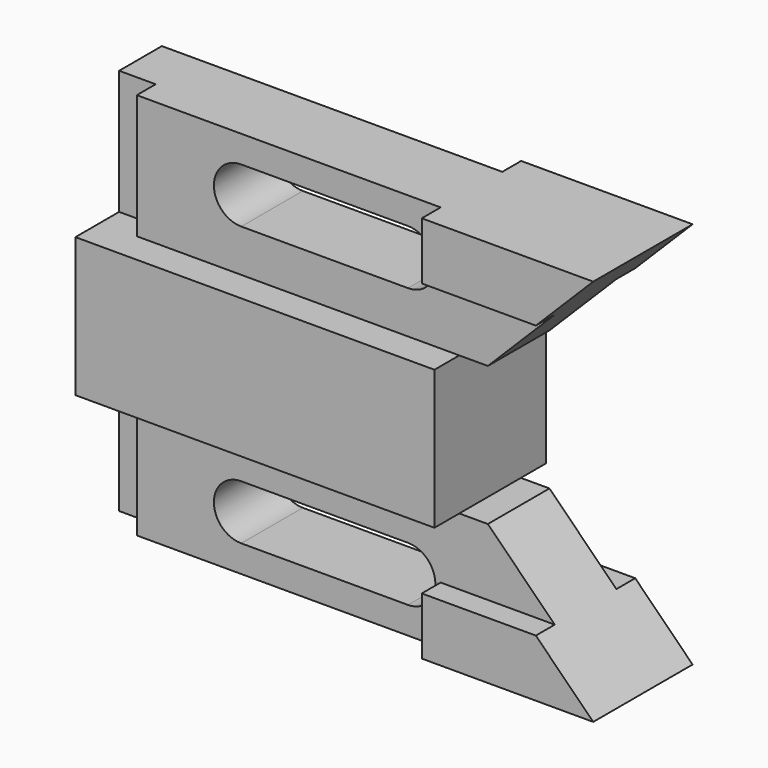
from build123d import *

# Parameters (mm, degrees)
F1_DEPTH      = 14.224
F2_DEPTH      = 7.874
F3_DEPTH      = 12.7
F0_W          = 7.468818
F0_H          = 25.4
F4_DEPTH      = 3.048
F4_DEPTH_BACK = 7.874


with BuildPart() as f1:
    # F0 (on Front) → F1 (new body, symmetric)
    with BuildSketch(Plane.XZ):
        Polygon((-31.242, -14.224), (-31.242, 0), (-97.179182, 0), (-104.648, 0), (-104.648, -14.224), align=None)
    extrude(amount=F1_DEPTH, both=True)

    # F0 (on Front) → F2 (join, symmetric)
    with BuildSketch(Plane.XZ):
        Polygon((-31.242, 0), (-25.4, 0), (-11.728174, 13.671826), (-35.052, 13.671826), (-35.052, 25.4), (-75.822987, 25.4), (-97.179182, 25.4), (-97.179182, 0), align=None)
        with BuildLine():
            ThreePointArc((-75.822987, 8.69926), (-81.410987, 14.28726), (-75.822987, 19.87526))
            Line((-75.822987, 19.87526), (-41.718637, 19.87526))
            ThreePointArc((-41.718637, 19.87526), (-36.130637, 14.28726), (-41.718637, 8.69926))
            Line((-41.718637, 8.69926), (-75.822987, 8.69926))
        make_face(mode=Mode.SUBTRACT)
    extrude(amount=F2_DEPTH, both=True)

    # F0 (on Front) → F3 (join, symmetric)
    with BuildSketch(Plane.XZ):
        Polygon((-35.052, 13.671826), (-11.728174, 13.671826), (0, 25.4), (-35.052, 25.4), align=None)
    extrude(amount=F3_DEPTH, both=True)

    # F0 (on Front) → F4 (join, two sides)
    with BuildSketch(Plane.XZ) as f4_sk:
        with Locations((-100.913591, 12.7)):
            Rectangle(F0_W, F0_H)
    extrude(amount=F4_DEPTH)
    extrude(f4_sk.sketch, amount=-F4_DEPTH_BACK)

    # F5: F1 across face


with BuildPart() as f1_1:
    add(f1.part)
    add(f1.part.mirror(Plane(origin=(-67.945, 0, -14.224), x_dir=(1, 0, 0), z_dir=(0, 0, -1))))


solid = f1_1.part
